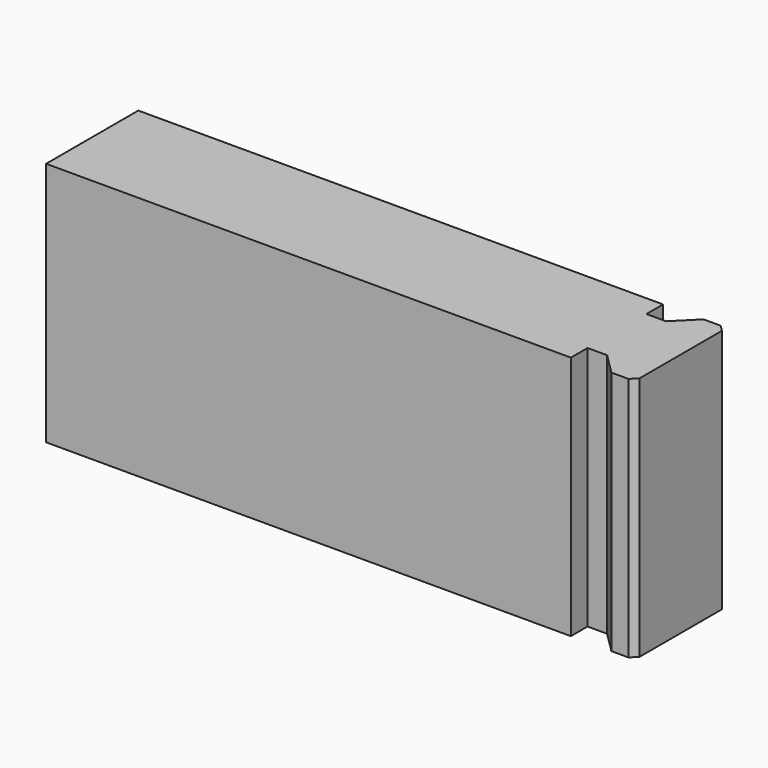
from build123d import *

# Parameters (mm, degrees)
F1_DEPTH = 10


with BuildPart() as f1:
    # F0 (on Top) → F1 (new body)
    with BuildSketch(Plane.XY):
        Polygon((22.2, 1.5), (21.4, 1.5), (21.4, 2.35), (0, 2.35), (0, 0), (0, -2.35), (21.4, -2.35), (21.4, -1.5), (22.2, -1.5), (23.05, -2.35), (23.75, -2.35), (24, -2.1), (24, 0), (24, 2.1), (23.75, 2.35), (23.05, 2.35), align=None)
    extrude(amount=-F1_DEPTH)


solid = f1.part
